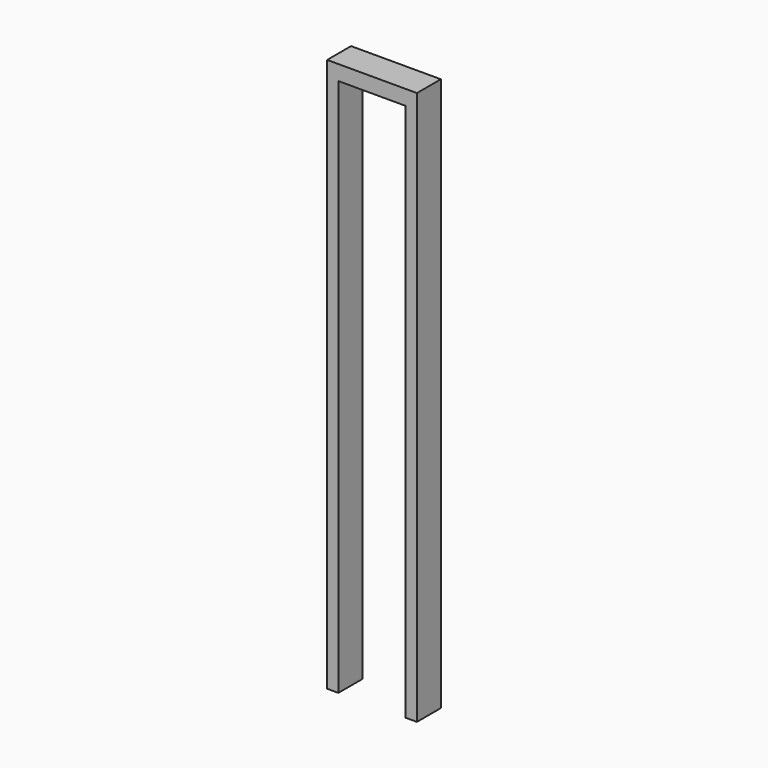
from build123d import *

# Parameters (mm, degrees)
F0_W     = 76.2
F0_H     = 25.4
F1_DEPTH = 12.7
F2_W     = 9.525
F2_H     = 25.4
F3_DEPTH = 457.2


with BuildPart() as f1:
    # F0 (on Top) → F1 (new body)
    with BuildSketch(Plane.XY):
        with Locations((29.242233, 6.816157)):
            Rectangle(F0_W, F0_H)
    extrude(amount=F1_DEPTH)

    # F2 (on face) → F3 (join)
    with BuildSketch(Plane(origin=(0, 0, 0), x_dir=(1, 0, 0), z_dir=(0, 0, -1))):
        with Locations((-4.095267, -6.816157)):
            Rectangle(F2_W, F2_H)
        Polygon((57.817233, 4.298586), (57.817233, -19.516157), (67.342233, -19.516157), (67.342233, 5.883843), (57.817233, 5.883843), align=None)
    extrude(amount=F3_DEPTH)


solid = f1.part
